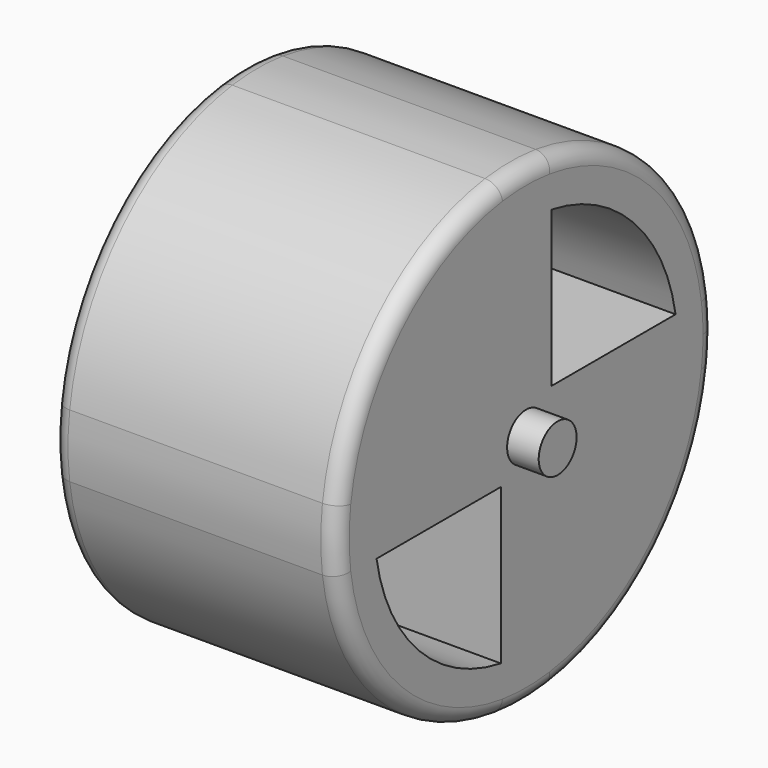
from build123d import *

# Parameters (mm, degrees)
F0_R     = 1.5
F1_DEPTH = 18
F2_R     = 1
F3_DEPTH = 20
F4_DEPTH = 2


with BuildPart() as f1:
    # F0 (on Right) → F1 (new body)
    with BuildSketch(Plane.YZ):
        with BuildLine():
            ThreePointArc((14.8660687473, -2), (14.9664797332, -1.0022396895), (15, 0))
            ThreePointArc((15, 0), (14.9664797332, 1.0022396895), (14.8660687473, 2))
            ThreePointArc((14.8660687473, 2), (10.6066017178, 10.6066017178), (2, 14.8660687473))
            ThreePointArc((2, 14.8660687473), (0, 15), (-2, 14.8660687473))
            ThreePointArc((-2, 14.8660687473), (-10.6066017178, 10.6066017178), (-14.8660687473, 2))
            ThreePointArc((-14.8660687473, 2), (-15, 0), (-14.8660687473, -2))
            ThreePointArc((-14.8660687473, -2), (-10.6066017178, -10.6066017178), (-2, -14.8660687473))
            ThreePointArc((-2, -14.8660687473), (0, -15), (2, -14.8660687473))
            ThreePointArc((2, -14.8660687473), (10.6066017178, -10.6066017178), (14.8660687473, -2))
        make_face()
        with BuildLine():
            ThreePointArc((-2, -11.8321595662), (-8.4852813742, -8.4852813742), (-11.8321595662, -2))
            Line((-11.8321595662, -2), (-2, -2))
            Line((-2, -2), (-2, -11.8321595662))
        make_face(mode=Mode.SUBTRACT)
        Circle(F0_R, mode=Mode.SUBTRACT)
        with BuildLine():
            ThreePointArc((2, 11.8321595662), (8.4852813742, 8.4852813742), (11.8321595662, 2))
            Line((11.8321595662, 2), (2, 2))
            Line((2, 2), (2, 11.8321595662))
        make_face(mode=Mode.SUBTRACT)
    extrude(amount=F1_DEPTH)

    # F2
    f2_edges = [f1.edges().sort_by_distance(p)[0] for p in [
        (0, 14.866069, 2),
        (18, 14.866069, 2),
    ]]
    fillet(f2_edges, radius=F2_R)

    # F0 (on Right) → F3 (join)
    with BuildSketch(Plane.YZ):
        Circle(F0_R)
    extrude(amount=F3_DEPTH)

    # F0 (on Right) → F4 (join)
    with BuildSketch(Plane.YZ):
        Circle(F0_R)
    extrude(amount=-F4_DEPTH)


solid = f1.part
